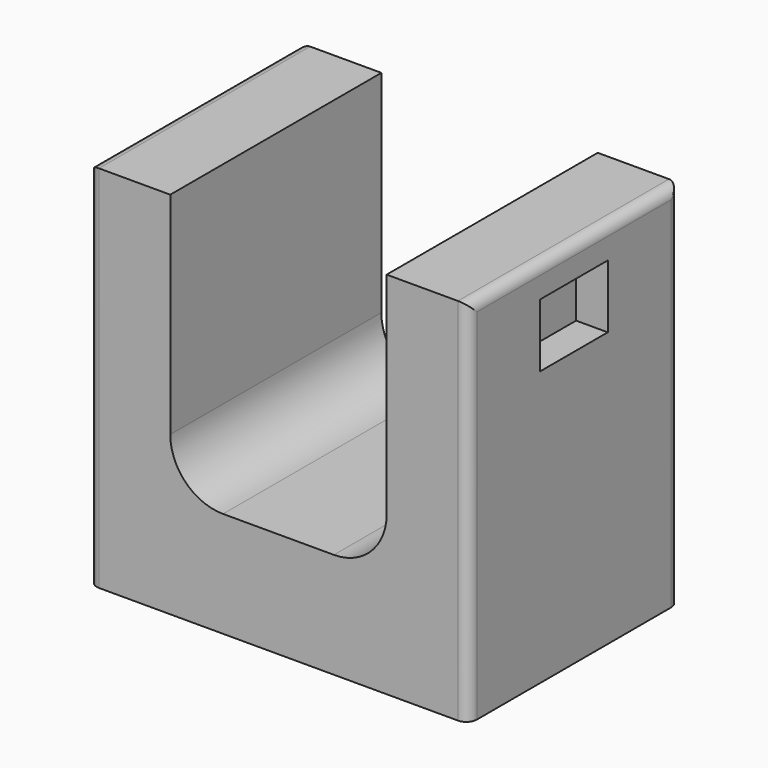
from build123d import *

# Parameters (mm, degrees)
F0_W     = 36
F0_H     = 25
F1_DEPTH = 35
F2_W     = 20.5
F2_H     = 25
F3_DEPTH = 25
F4_R     = 1
F5_R     = 5
F6_W     = 8
F6_H     = 6
F7_DEPTH = 3
F8_W     = 8
F8_H     = 6
F9_DEPTH = 3


with BuildPart() as f1:
    # F0 (on Top) → F1 (new body)
    with BuildSketch(Plane.XY):
        with Locations((18, 12.5)):
            Rectangle(F0_W, F0_H)
    extrude(amount=F1_DEPTH)

    # F2 (on face) → F3 (cut)
    with BuildSketch(Plane.XY.offset(35)):
        with Locations((18, 12.5)):
            Rectangle(F2_W, F2_H)
    extrude(amount=-F3_DEPTH, mode=Mode.SUBTRACT)

    # F4
    f4_edges = [f1.edges().sort_by_distance(p)[0] for p in [
        (0, 0, 17.5),
        (0, 12.5, 35),
        (0, 25, 17.5),
        (36, 25, 17.5),
        (36, 12.5, 35),
        (36, 0, 17.5),
    ]]
    fillet(f4_edges, radius=F4_R)

    # F5
    f5_edges = [f1.edges().sort_by_distance(p)[0] for p in [
        (7.75, 12.5, 10),
        (28.25, 12.5, 10),
    ]]
    fillet(f5_edges, radius=F5_R)

    # F6 (on face) → F7 (cut)
    with BuildSketch(Plane(origin=(0, 0, 0), x_dir=(0, -1, 0), z_dir=(-1, 0, 0))):
        with Locations((-12.5, 29)):
            Rectangle(F6_W, F6_H)
    extrude(amount=-F7_DEPTH, mode=Mode.SUBTRACT)

    # F8 (on face) → F9 (cut)
    with BuildSketch(Plane.YZ.offset(36)):
        with Locations((12.5, 29)):
            Rectangle(F8_W, F8_H)
    extrude(amount=-F9_DEPTH, mode=Mode.SUBTRACT)


solid = f1.part
